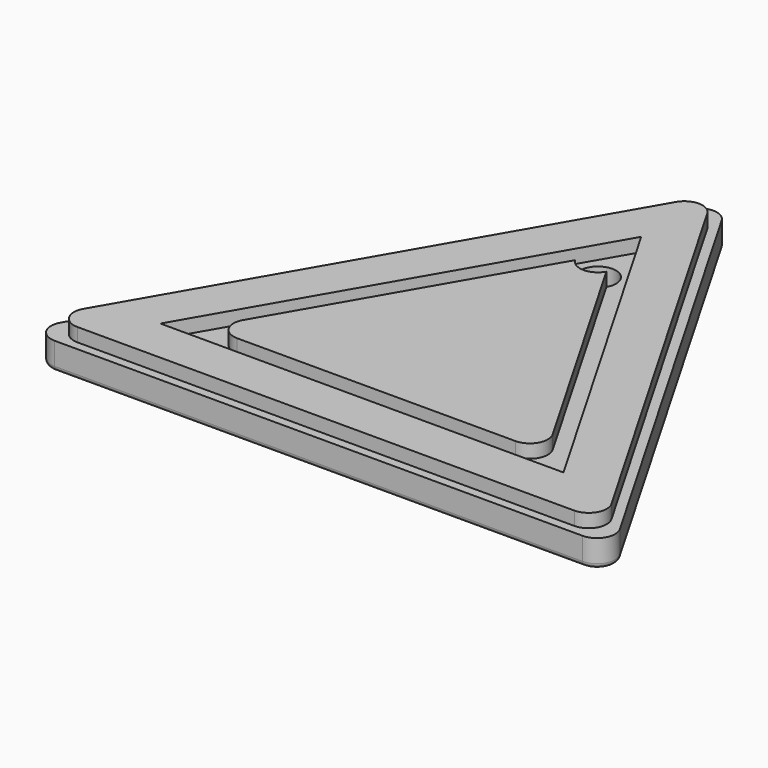
from build123d import *

# Parameters (mm, degrees)
PAD008_DEPTH    = 3
PAD009_DEPTH    = 1.5
POCKET_DEPTH    = 5
FILLET_R        = 2
FILLET001_R     = 2
SKETCH023_R     = 2
POCKET001_DEPTH = 4.501
FILLET002_R     = 0.5


with BuildPart() as part:
    # Sketch020 → Pad008 (new body)
    with BuildSketch(Plane.XY):
        Polygon((0, 37.8364245462), (-32.7673048454, -18.9182122731), (32.7673048454, -18.9182122731), align=None)
    extrude(amount=-PAD008_DEPTH)

    # Sketch021 → Pad009 (join)
    with BuildSketch(Plane.XY):
        Polygon((0, 35.8364245464), (-31.035254038, -17.9182122732), (31.035254038, -17.9182122732), align=None)
    extrude(amount=PAD009_DEPTH)

    # Sketch022 → Pocket (cut)
    with BuildSketch(Plane.XY):
        Polygon((0, 25.8364245462), (-22.375, -12.9182122731), (22.375, -12.9182122731), align=None)
        Polygon((0, 21.8364245462), (-18.9108983849, -10.9182122731), (18.9108983849, -10.9182122731), align=None, mode=Mode.SUBTRACT)
    extrude(amount=POCKET_DEPTH, mode=Mode.SUBTRACT)

    # Fillet
    fillet_edges = [part.edges().sort_by_distance(p)[0] for p in [
        (-32.767305, -18.918212, -1.5),
        (32.767305, -18.918212, -1.5),
        (0, 37.836425, -1.5),
        (31.035254, -17.918212, 0.75),
        (-31.035254, -17.918212, 0.75),
        (0, 35.836425, 0.75),
    ]]
    fillet(fillet_edges, radius=FILLET_R)

    # Fillet001
    fillet001_edges = [part.edges().sort_by_distance(p)[0] for p in [
        (0, 21.836425, 0.75),
        (18.910898, -10.918212, 0.75),
        (-18.910898, -10.918212, 0.75),
    ]]
    fillet(fillet001_edges, radius=FILLET001_R)

    # Sketch023 (on Face11 of Fillet001) → Pocket001 (cut, through all)
    with BuildSketch(Plane.XY.offset(1.5)):
        with Locations((0, 19.8364245462)):
            Circle(SKETCH023_R)
    extrude(amount=-POCKET001_DEPTH, mode=Mode.SUBTRACT)

    # Fillet002
    fillet002_edges = [part.edges().sort_by_distance(p)[0] for p in [
        (16.383652, 9.459106, -3),
    ]]
    fillet(fillet002_edges, radius=FILLET002_R)


solid = part.part
